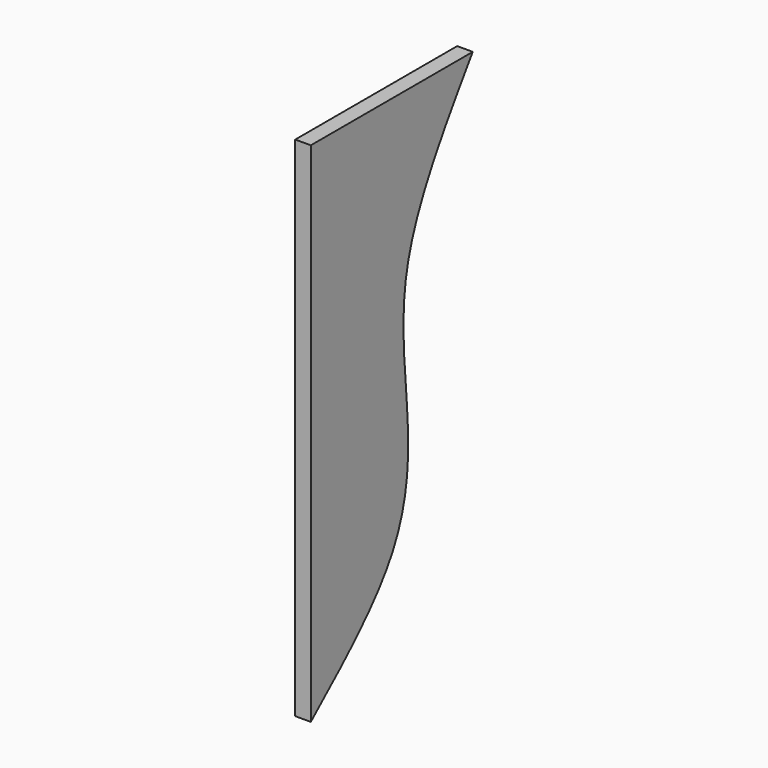
from build123d import *

# Parameters (mm, degrees)
F0_W     = 82.55
F0_H     = 207.01
F1_DEPTH = 6.35
F3_DEPTH = 12.7


with BuildPart() as f1:
    # F0 (on Right) → F1 (new body)
    with BuildSketch(Plane.YZ):
        with Locations((-52.8816960618, -6.4866193426)):
            Rectangle(F0_W, F0_H)
    extrude(amount=F1_DEPTH)

    # F2 (on face) → F3 (cut)
    with BuildSketch(Plane.YZ.offset(6.35)):
        with BuildLine():
            add(Edge.make_bspline(
                [(-94.1566960618, -109.9916193426), (-77.796728367, -95.9423058875), (-47.5937868436, -70.0051768758), (-42.0838996751, -24.1004989698), (-53.4095488331, 35.6999464557), (-26.0800217267, 75.7882107376), (-11.6066960618, 97.0183806574)],
                knots=[0, 0, 0, 0, 0.2547585875, 0.4703223664, 0.7194903205, 1, 1, 1, 1], degree=3))
            Line((-94.1566960618, -109.9916193426), (-11.6066960618, -109.9916193426))
            Line((-11.6066960618, -109.9916193426), (-11.6066960618, 97.0183806574))
        make_face()
    extrude(amount=-F3_DEPTH, mode=Mode.SUBTRACT)


solid = f1.part
